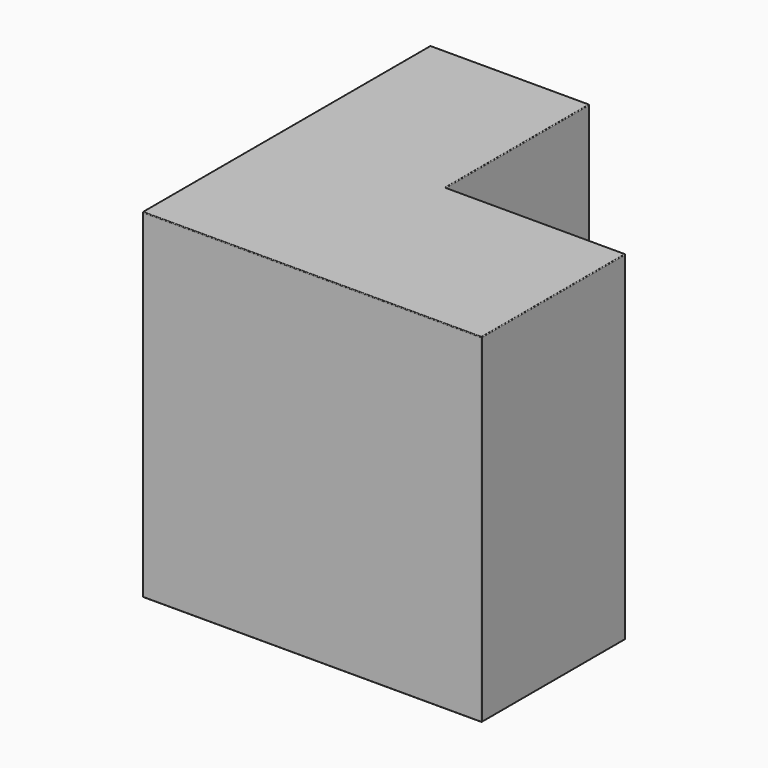
from build123d import *

# Parameters (mm, degrees)
F0_W     = 23
F0_H     = 26
F1_DEPTH = 49
F2_R     = 0.1


with BuildPart() as f1:
    # F0 (on Top) → F1 (new body)
    with BuildSketch(Plane.XY):
        Polygon((-24.5, -13), (24.5, -13), (24.5, 13), (-1.5, 13), (-24.5, 13), align=None)
        with Locations((-13, 26)):
            Rectangle(F0_W, F0_H)
    extrude(amount=F1_DEPTH)

    # F2
    f2_edges = [f1.edges().sort_by_distance(p)[0] for p in [
        (0, -13, 49),
        (24.5, 0, 49),
        (11.5, 13, 49),
        (-1.5, 26, 49),
        (-13, 39, 49),
        (-24.5, 13, 49),
        (24.5, -13, 24.5),
        (24.5, 13, 24.5),
        (24.5, 0, 0),
        (11.5, 13, 0),
        (-1.5, 13, 24.5),
        (-1.5, 39, 24.5),
        (-1.5, 26, 0),
        (-24.5, 39, 24.5),
        (-13, 39, 0),
        (-24.5, -13, 24.5),
        (-24.5, 13, 0),
        (0, -13, 0),
    ]]
    fillet(f2_edges, radius=F2_R)


solid = f1.part
